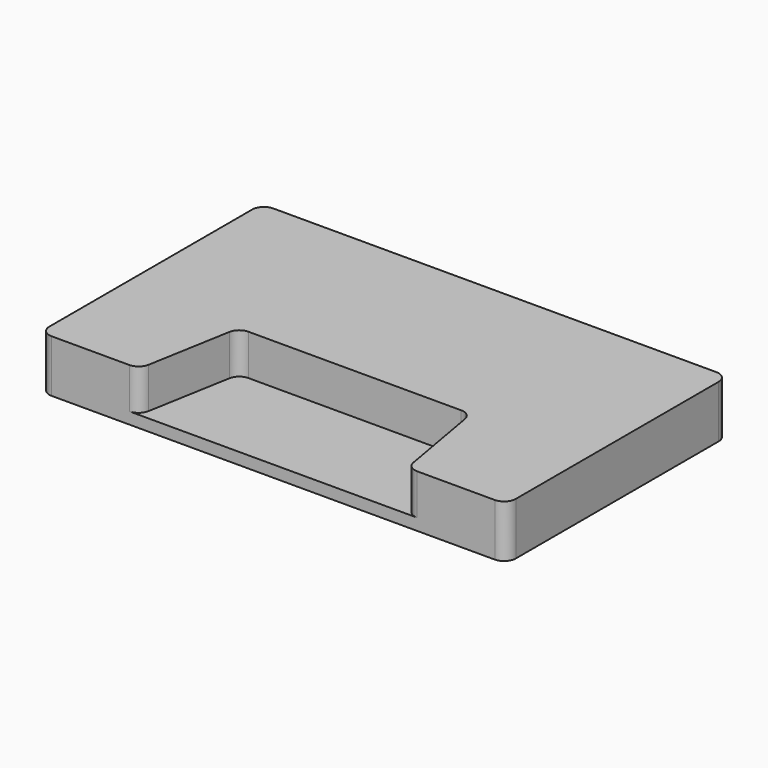
from build123d import *

# Parameters (mm, degrees)
F1_DEPTH = 114.3
F2_START = 25.4
F2_DEPTH = 88.901
F3_R     = 25.4


with BuildPart() as f1:
    # F0 (on Top) → F1 (new body)
    with BuildSketch(Plane.XY):
        Polygon((508, 0), (-508, 0), (-508, -603.25), (-292.1, -603.25), (-252.9113285375, -381), (252.9113285375, -381), (292.1, -603.25), (508, -603.25), align=None)
        Polygon((-252.9113285375, -381), (-292.1, -603.25), (292.1, -603.25), (252.9113285375, -381), align=None)
    extrude(amount=F1_DEPTH)

    # F0 (on Top) → F2 (cut)
    with BuildSketch(Plane.XY.offset(F2_START)):
        Polygon((-252.9113285375, -381), (-292.1, -603.25), (292.1, -603.25), (252.9113285375, -381), align=None)
    extrude(amount=F2_DEPTH, mode=Mode.SUBTRACT)

    # F3
    f3_edges = [f1.edges().sort_by_distance(p)[0] for p in [
        (-508, -603.25, 57.15),
        (508, -603.25, 57.15),
        (-292.1, -603.25, 69.85),
        (-252.911329, -381, 69.85),
        (292.1, -603.25, 69.85),
        (508, 0, 57.15),
        (252.911329, -381, 69.85),
        (-508, 0, 57.15),
    ]]
    fillet(f3_edges, radius=F3_R)


solid = f1.part
